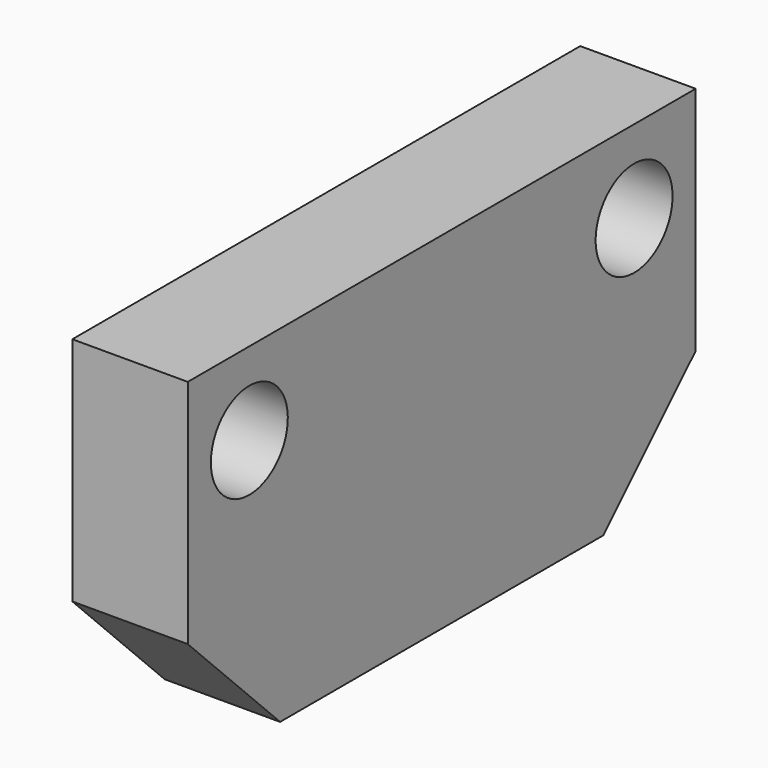
from build123d import *

# Parameters (mm, degrees)
CYLINDER_R              = 2.5
CYLINDER_DEPTH          = 10
CYLINDER_PITCH_ANGLE    = 90
CYLINDER001_R           = 2.5
CYLINDER001_DEPTH       = 10
CYLINDER001_PITCH_ANGLE = 90
BOX_W                   = 6
BOX_H                   = 33
BOX_DEPTH               = 18
CHAMFER_SIZE            = 6


with BuildPart() as cilindro:
    # Cylinder → Cylinder (new body)
    with BuildSketch(Plane.XY):
        Circle(CYLINDER_R)
    extrude(amount=CYLINDER_DEPTH)


with BuildPart() as cilindro_1:
    # Cylinder pitch: moved
    add(cilindro.part.rotate(Axis((0, 0, 0), (0, 1, 0)), CYLINDER_PITCH_ANGLE))


with BuildPart() as cilindro_2:
    # Cylinder placement: moved
    add(cilindro_1.part.moved(Location((28, 7, 61))))


with BuildPart() as fusion:
    # Cylinder001 → Cylinder001 (new body)
    with BuildSketch(Plane.XY):
        Circle(CYLINDER001_R)
    extrude(amount=CYLINDER001_DEPTH)


with BuildPart() as fusion_1:
    # Cylinder001 pitch: moved
    add(fusion.part.rotate(Axis((0, 0, 0), (0, 1, 0)), CYLINDER001_PITCH_ANGLE))


with BuildPart() as fusion_2:
    # Cylinder001 placement: moved
    add(fusion_1.part.moved(Location((28, -18, 61))))

    # Fusion: union Cilindro
    add(cilindro_2.part)


with BuildPart() as soporte_leds:
    # Box → Box (new body)
    with BuildSketch(Plane(origin=(30, -22, 47.3), x_dir=(1, 0, 0), z_dir=(0, 0, 1))):
        with Locations((3, 16.5)):
            Rectangle(BOX_W, BOX_H)
    extrude(amount=BOX_DEPTH)

    # Chamfer
    chamfer_edges = [soporte_leds.edges().sort_by_distance(p)[0] for p in [
        (33, -22, 47.3),
        (33, 11, 47.3),
    ]]
    chamfer(chamfer_edges, length=CHAMFER_SIZE)

    # Cut: cut Fusion
    add(fusion_2.part, mode=Mode.SUBTRACT)


solid = soporte_leds.part
